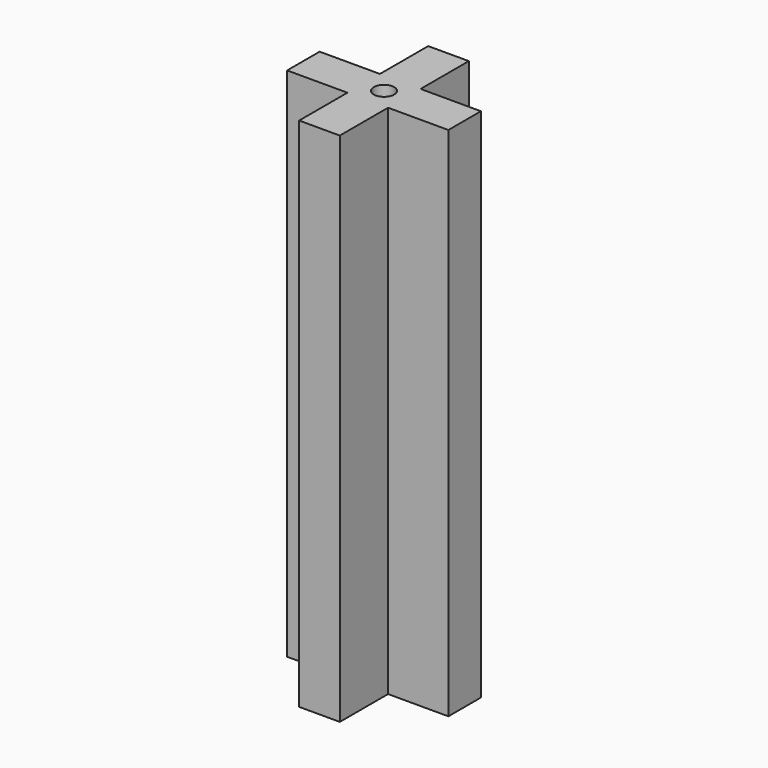
from build123d import *

# Parameters (mm, degrees)
F0_W     = 2
F0_H     = 2.9676833243
F0_H_2   = 2
F0_W_2   = 2.9676833243
F1_DEPTH = 25.4
F3_R     = 0.5
F4_DEPTH = 25.401


with BuildPart() as f1:
    # F0 (on Top) → F1 (new body)
    with BuildSketch(Plane.XY):
        with Locations((0, -2.4838416622)):
            Rectangle(F0_W, F0_H)
        Rectangle(F0_W, F0_H_2)
        with Locations((2.4838416622, 0)):
            Rectangle(F0_W_2, F0_H_2)
        with Locations((-2.4838416622, 0)):
            Rectangle(F0_W_2, F0_H_2)
        with Locations((0, 2.4838416622)):
            Rectangle(F0_W, F0_H)
    extrude(amount=F1_DEPTH)

    # F3 (on face) → F4 (cut, through all)
    with BuildSketch(Plane.XY.offset(25.4)):
        Circle(F3_R)
    extrude(amount=-F4_DEPTH, mode=Mode.SUBTRACT)


solid = f1.part
